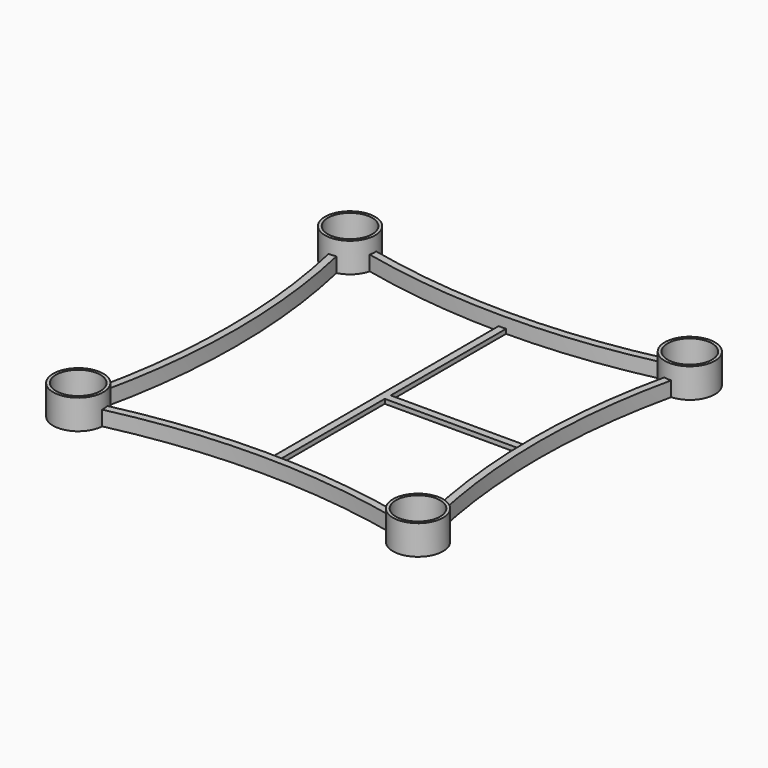
from build123d import *

# Parameters (mm, degrees)
F1_R     = 3.4
F1_R_2   = 3
F2_DEPTH = 4
F3_DEPTH = 2
F4_W     = 20.0225106329
F4_H     = 1
F4_W_2   = 0.5
F5_DEPTH = 0.6


with BuildPart() as f2:
    # F1 (on Top) → F2 (new body)
    with BuildSketch(Plane.XY):
        with Locations((-23.0000428855, -23.0001099408)):
            Circle(F1_R)
        with Locations((-23.0000428855, -23.0001099408)):
            Circle(F1_R_2, mode=Mode.SUBTRACT)
    extrude(amount=F2_DEPTH)


with BuildPart() as f2b:
    # F1 (on Top) → F2, piece 2 (new body)
    with BuildSketch(Plane.XY):
        with Locations((23.0001099408, -23.0000428855)):
            Circle(F1_R)
        with Locations((23.0001099408, -23.0000428855)):
            Circle(F1_R_2, mode=Mode.SUBTRACT)
    extrude(amount=F2_DEPTH)


with BuildPart() as f2c:
    # F1 (on Top) → F2, piece 3 (new body)
    with BuildSketch(Plane.XY):
        with Locations((23.0000428855, 23.0001099408)):
            Circle(F1_R)
        with Locations((23.0000428855, 23.0001099408)):
            Circle(F1_R_2, mode=Mode.SUBTRACT)
    extrude(amount=F2_DEPTH)


with BuildPart() as f2d:
    # F1 (on Top) → F2, piece 4 (new body)
    with BuildSketch(Plane.XY):
        with Locations((-23.0001099408, 23.0000428855)):
            Circle(F1_R)
        with Locations((-23.0001099408, 23.0000428855)):
            Circle(F1_R_2, mode=Mode.SUBTRACT)
    extrude(amount=F2_DEPTH)


with BuildPart() as f3:
    # F0 (on Top) → F3 (new body)
    with BuildSketch(Plane.XY):
        with BuildLine():
            Line((-23.1896166539, -19.6105202347), (-22.1933558134, -19.6970732439))
            ThreePointArc((-22.1933558134, -19.6970732439), (-20.0114938313, -0.0077955563), (-22.1899449169, 19.6818598097))
            Line((-22.1899449169, 19.6818598097), (-23.1933854726, 19.6076260275))
            ThreePointArc((-23.1933854726, 19.6076260275), (-21.0094546656, -0.0012374114), (-23.1896166539, -19.6105202347))
        make_face()
    extrude(amount=F3_DEPTH)


with BuildPart() as f3b:
    # F0 (on Top) → F3, piece 2 (new body)
    with BuildSketch(Plane.XY):
        with BuildLine():
            ThreePointArc((22.1920466744, 19.6912356229), (20.0114935429, -0.0029768646), (22.193349492, -19.69704506))
            Line((22.193349492, -19.69704506), (23.1933854726, -19.6076260275))
            ThreePointArc((23.1933854726, -19.6076260275), (21.0094546656, 0.0012374114), (23.1896166539, 19.6105202347))
            Line((23.1896166539, 19.6105202347), (22.1920466744, 19.6912356229))
        make_face()
    extrude(amount=F3_DEPTH)


with BuildPart() as f3c:
    # F0 (on Top) → F3, piece 3 (new body)
    with BuildSketch(Plane.XY):
        with BuildLine():
            Line((19.6105202347, -23.1896166539), (19.6972026091, -22.1933848294))
            ThreePointArc((19.6972026091, -22.1933848294), (6.62897e-05, -20.0114934937), (-19.6970732439, -22.1933558134))
            Line((-19.6970732439, -22.1933558134), (-19.6076260275, -23.1933854726))
            ThreePointArc((-19.6076260275, -23.1933854726), (0.0012374114, -21.0094546656), (19.6105202347, -23.1896166539))
        make_face()
    extrude(amount=F3_DEPTH)


with BuildPart() as f3d:
    # F0 (on Top) → F3, piece 4 (new body)
    with BuildSketch(Plane.XY):
        with BuildLine():
            ThreePointArc((-19.6971722044, 22.1933780097), (1.70497e-05, 20.0114934937), (19.6972054771, 22.1933854726))
            Line((19.6972054771, 22.1933854726), (19.6076260275, 23.1933854726))
            ThreePointArc((19.6076260275, 23.1933854726), (-0.0012374114, 21.0094546656), (-19.6105202347, 23.1896166539))
            Line((-19.6105202347, 23.1896166539), (-19.6971722044, 22.1933780097))
        make_face()
    extrude(amount=F3_DEPTH)


with BuildPart() as f5:
    # F4 (on Top) → F5 (new body)
    with BuildSketch(Plane.XY):
        Polygon((0.5, 0.5), (0.5, 20.1212763786), (-0.5, 20.1212763786), (-0.5, -20.2392917126), (0.5, -20.2392917126), (0.5, -0.5), (0, -0.5), (0, 0.5), align=None)
        with Locations((10.5112553164, 0)):
            Rectangle(F4_W, F4_H)
        with Locations((0.25, 0)):
            Rectangle(F4_W_2, F4_H)
    extrude(amount=F5_DEPTH)


solid = Compound([f2.part, f2b.part, f2c.part, f2d.part, f3.part, f3b.part, f3c.part, f3d.part, f5.part])
